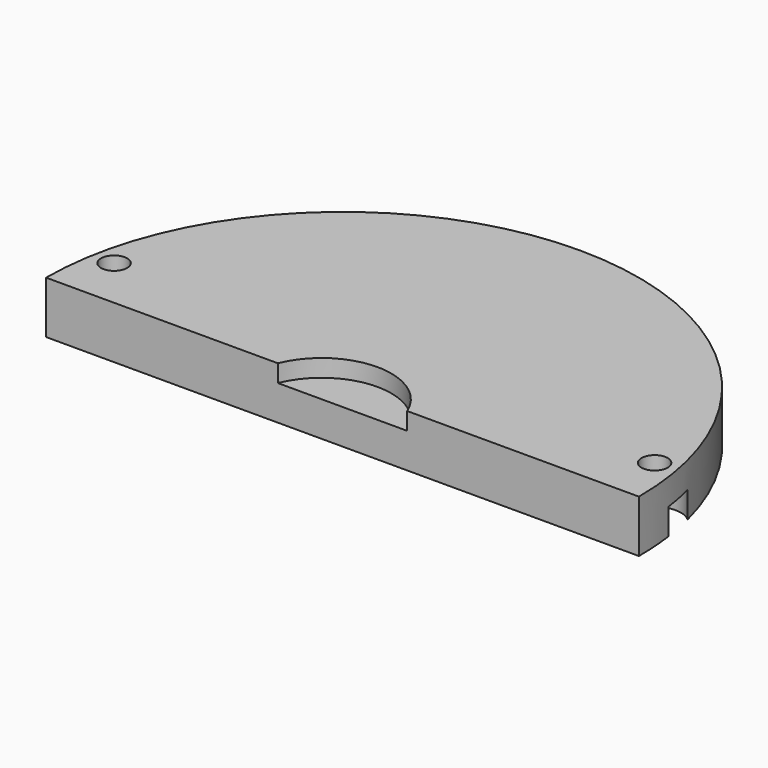
from build123d import *

# Parameters (mm, degrees)
CYLINDER687_R               = 8
CYLINDER687_DEPTH           = 6
CYLINDER688_R               = 3
CYLINDER688_DEPTH           = 3
CYLINDER688_PLACEMENT_ANGLE = 45
CYLINDER668_R               = 3
CYLINDER668_DEPTH           = 3
CYLINDER668_PLACEMENT_ANGLE = 45
CYLINDER676_R               = 3
CYLINDER676_DEPTH           = 3
CYLINDER676_PLACEMENT_ANGLE = 45
CYLINDER683_R               = 3
CYLINDER683_DEPTH           = 3
CYLINDER683_PLACEMENT_ANGLE = 45
CYLINDER681_R               = 1.5
CYLINDER681_DEPTH           = 50
CYLINDER681_PLACEMENT_ANGLE = 45
CYLINDER686_R               = 1.5
CYLINDER686_DEPTH           = 50
CYLINDER686_PLACEMENT_ANGLE = 45
CYLINDER685_R               = 1.5
CYLINDER685_DEPTH           = 50
CYLINDER685_PLACEMENT_ANGLE = 45
CYLINDER675_R               = 1.5
CYLINDER675_DEPTH           = 50
CYLINDER675_PLACEMENT_ANGLE = 45
BOX250_W                    = 148
BOX250_H                    = 40
BOX250_DEPTH                = 40
CYLINDER671_R               = 34
CYLINDER671_DEPTH           = 6


with BuildPart() as obj1:
    # Cylinder687 → Cylinder687 (new body)
    with BuildSketch(Plane(origin=(0, 83, 25), x_dir=(1, 0, 0), z_dir=(0, 0, 1))):
        Circle(CYLINDER687_R)
    extrude(amount=CYLINDER687_DEPTH)


with BuildPart() as obj2:
    # Cylinder688 → Cylinder688 (new body)
    with BuildSketch(Plane.XY):
        Circle(CYLINDER688_R)
    extrude(amount=CYLINDER688_DEPTH)


with BuildPart() as obj2_1:
    # Cylinder688 placement: moved
    add(obj2.part.moved(Location((-31, 92, 21))).rotate(Axis((-31, 92, 21), (0, 0, 1)), CYLINDER688_PLACEMENT_ANGLE))


with BuildPart() as obj3:
    # Cylinder668 → Cylinder668 (new body)
    with BuildSketch(Plane.XY):
        Circle(CYLINDER668_R)
    extrude(amount=CYLINDER668_DEPTH)


with BuildPart() as obj3_1:
    # Cylinder668 placement: moved
    add(obj3.part.moved(Location((31, 110, 0))).rotate(Axis((31, 110, 0), (0, 0, 1)), CYLINDER668_PLACEMENT_ANGLE))


with BuildPart() as obj4:
    # Cylinder676 → Cylinder676 (new body)
    with BuildSketch(Plane.XY):
        Circle(CYLINDER676_R)
    extrude(amount=CYLINDER676_DEPTH)


with BuildPart() as obj4_1:
    # Cylinder676 placement: moved
    add(obj4.part.moved(Location((31, 92, 21))).rotate(Axis((31, 92, 21), (0, 0, 1)), CYLINDER676_PLACEMENT_ANGLE))


with BuildPart() as compound400:
    # Cylinder683 → Cylinder683 (new body)
    with BuildSketch(Plane.XY):
        Circle(CYLINDER683_R)
    extrude(amount=CYLINDER683_DEPTH)


with BuildPart() as compound400_1:
    # Cylinder683 placement: moved
    add(compound400.part.moved(Location((-31, 110, 0))).rotate(Axis((-31, 110, 0), (0, 0, 1)), CYLINDER683_PLACEMENT_ANGLE))

    # Compound400: union obj2, obj3, obj4
    add(obj2_1.part)
    add(obj3_1.part)
    add(obj4_1.part)


with BuildPart() as obj5:
    # Cylinder681 → Cylinder681 (new body)
    with BuildSketch(Plane.XY):
        Circle(CYLINDER681_R)
    extrude(amount=CYLINDER681_DEPTH)


with BuildPart() as obj5_1:
    # Cylinder681 placement: moved
    add(obj5.part.moved(Location((-31, 92, 0))).rotate(Axis((-31, 92, 0), (0, 0, 1)), CYLINDER681_PLACEMENT_ANGLE))


with BuildPart() as obj6:
    # Cylinder686 → Cylinder686 (new body)
    with BuildSketch(Plane.XY):
        Circle(CYLINDER686_R)
    extrude(amount=CYLINDER686_DEPTH)


with BuildPart() as obj6_1:
    # Cylinder686 placement: moved
    add(obj6.part.moved(Location((31, 110, 0))).rotate(Axis((31, 110, 0), (0, 0, 1)), CYLINDER686_PLACEMENT_ANGLE))


with BuildPart() as obj7:
    # Cylinder685 → Cylinder685 (new body)
    with BuildSketch(Plane.XY):
        Circle(CYLINDER685_R)
    extrude(amount=CYLINDER685_DEPTH)


with BuildPart() as obj7_1:
    # Cylinder685 placement: moved
    add(obj7.part.moved(Location((31, 92, 0))).rotate(Axis((31, 92, 0), (0, 0, 1)), CYLINDER685_PLACEMENT_ANGLE))


with BuildPart() as compound396:
    # Cylinder675 → Cylinder675 (new body)
    with BuildSketch(Plane.XY):
        Circle(CYLINDER675_R)
    extrude(amount=CYLINDER675_DEPTH)


with BuildPart() as compound396_1:
    # Cylinder675 placement: moved
    add(compound396.part.moved(Location((-31, 110, 0))).rotate(Axis((-31, 110, 0), (0, 0, 1)), CYLINDER675_PLACEMENT_ANGLE))

    # Compound396: union obj5, obj6, obj7
    add(obj5_1.part)
    add(obj6_1.part)
    add(obj7_1.part)


with BuildPart() as krychle250:
    # Box250 → Box250 (new body)
    with BuildSketch(Plane(origin=(-74, 46, 16), x_dir=(1, 0, 0), z_dir=(0, 0, 1))):
        with Locations((74, 20)):
            Rectangle(BOX250_W, BOX250_H)
    extrude(amount=BOX250_DEPTH)


with BuildPart() as cut274:
    # Cylinder671 → Cylinder671 (new body)
    with BuildSketch(Plane(origin=(0, 86, 21), x_dir=(1, 0, 0), z_dir=(0, 0, 1))):
        Circle(CYLINDER671_R)
    extrude(amount=CYLINDER671_DEPTH)

    # Cut271: cut Krychle250
    add(krychle250.part, mode=Mode.SUBTRACT)

    # Cut277: cut Compound396
    add(compound396_1.part, mode=Mode.SUBTRACT)

    # Cut275: cut Compound400
    add(compound400_1.part, mode=Mode.SUBTRACT)

    # Cut274: cut obj1
    add(obj1.part, mode=Mode.SUBTRACT)


solid = cut274.part
